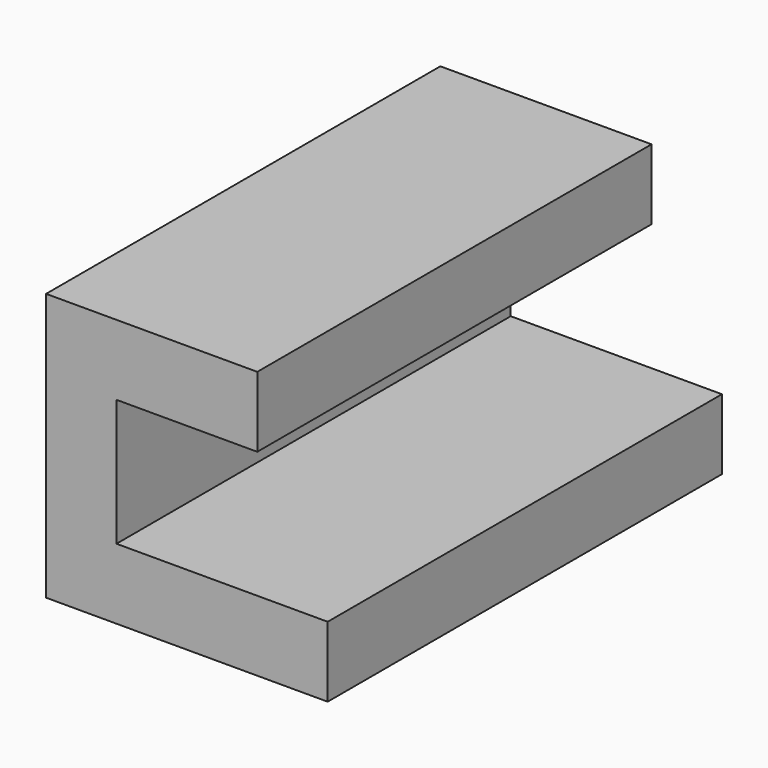
from build123d import *

# Parameters (mm, degrees)
F0_W     = 10
F0_H     = 10
F1_DEPTH = 35


with BuildPart() as f1:
    # F0 (on Front) → F1 (new body, symmetric)
    with BuildSketch(Plane.XZ):
        Polygon((15, 28), (15, 38), (-15, 38), (-15, 0), (15, 0), (15, 10), (-5, 10), (-5, 28), align=None)
        with Locations((20, 5)):
            Rectangle(F0_W, F0_H)
    extrude(amount=F1_DEPTH, both=True)


solid = f1.part
